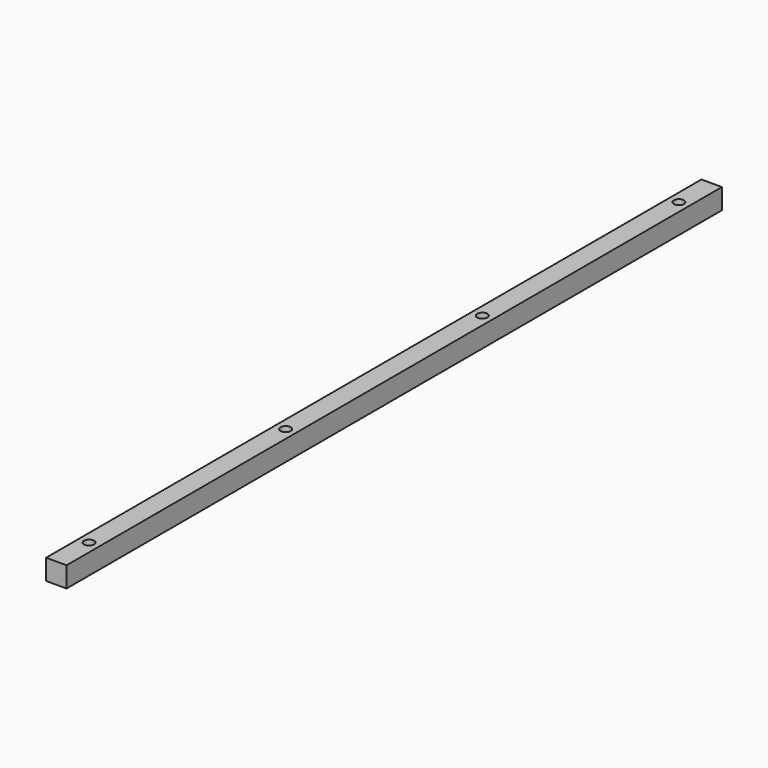
from build123d import *

# Parameters (mm, degrees)
F0_W     = 50
F0_H     = 50
F1_DEPTH = 2000
F2_R     = 12.5
F3_DEPTH = 25


with BuildPart() as f1:
    # F0 (on Front) → F1 (new body)
    with BuildSketch(Plane.XZ):
        with Locations((25, 25)):
            Rectangle(F0_W, F0_H)
    extrude(amount=-F1_DEPTH)

    # F2 (on face) → F3 (cut)
    with BuildSketch(Plane.XY.offset(50)):
        with Locations((25, 100)):
            Circle(F2_R)
        with Locations((25, 1900)):
            Circle(F2_R)
        with Locations((25, 1300)):
            Circle(F2_R)
        with Locations((25, 700)):
            Circle(F2_R)
    extrude(amount=-F3_DEPTH, mode=Mode.SUBTRACT)


solid = f1.part
